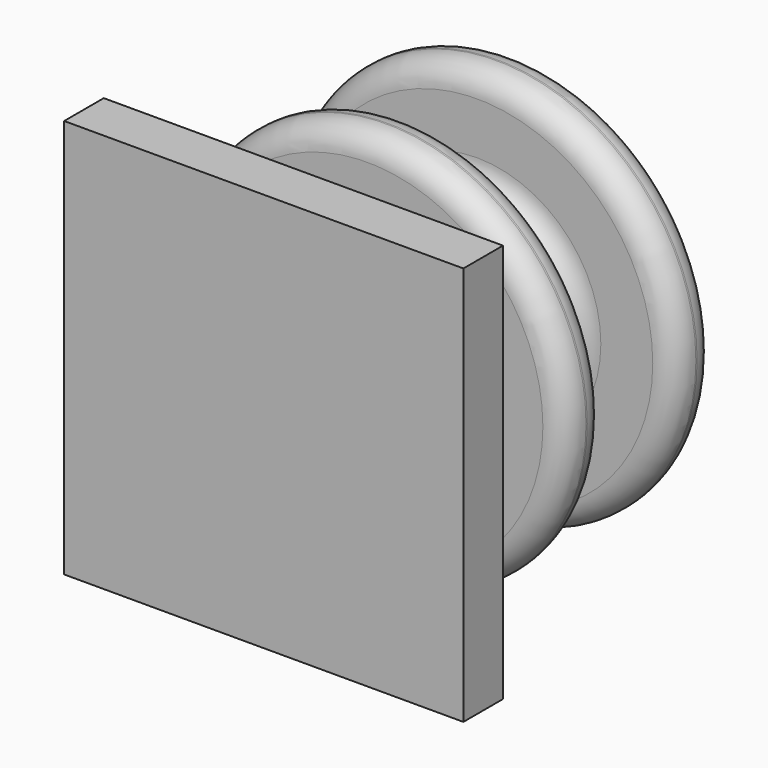
from build123d import *

# Parameters (mm, degrees)
F0_R     = 6.35
F0_R_2   = 3.175
F1_DEPTH = 1.5748
F2_DEPTH = 4.3688
F3_R     = 6.35
F3_R_2   = 3.175
F4_DEPTH = 1.5748
F5_R     = 3.175
F6_DEPTH = 2.54
F7_W     = 12.7
F7_H     = 12.7
F7_R     = 3.175
F8_DEPTH = 1.5748
F9_R     = 0.762


with BuildPart() as f1:
    # F0 (on Front) → F1 (new body)
    with BuildSketch(Plane.XZ):
        Circle(F0_R)
        Circle(F0_R_2, mode=Mode.SUBTRACT)
    extrude(amount=F1_DEPTH)

    # F0 (on Front) → F2 (join)
    with BuildSketch(Plane.XZ):
        Circle(F0_R_2)
    extrude(amount=F2_DEPTH)

    # F3 (on face) → F4 (join)
    with BuildSketch(Plane.XZ.offset(4.3688)):
        Circle(F3_R)
        Circle(F3_R_2, mode=Mode.SUBTRACT)
        Circle(F3_R_2)
    extrude(amount=F4_DEPTH)

    # F5 (on face) → F6 (join)
    with BuildSketch(Plane.XZ.offset(5.9436)):
        Circle(F5_R)
    extrude(amount=F6_DEPTH)

    # F7 (on face) → F8 (join)
    with BuildSketch(Plane.XZ.offset(8.4836)):
        Rectangle(F7_W, F7_H)
        Circle(F7_R, mode=Mode.SUBTRACT)
        Circle(F7_R)
    extrude(amount=F8_DEPTH)

    # F9
    f9_edges = [f1.edges().sort_by_distance(p)[0] for p in [
        (-6.35, -5.9436, 0),
        (-6.35, -4.3688, 0),
        (-6.35, -1.5748, 0),
        (-6.35, 0, 0),
        (-3.175, -1.5748, 0),
        (-3.175, -4.3688, 0),
        (-3.175, -5.9436, 0),
        (-3.175, -8.4836, 0),
    ]]
    fillet(f9_edges, radius=F9_R)


solid = f1.part
